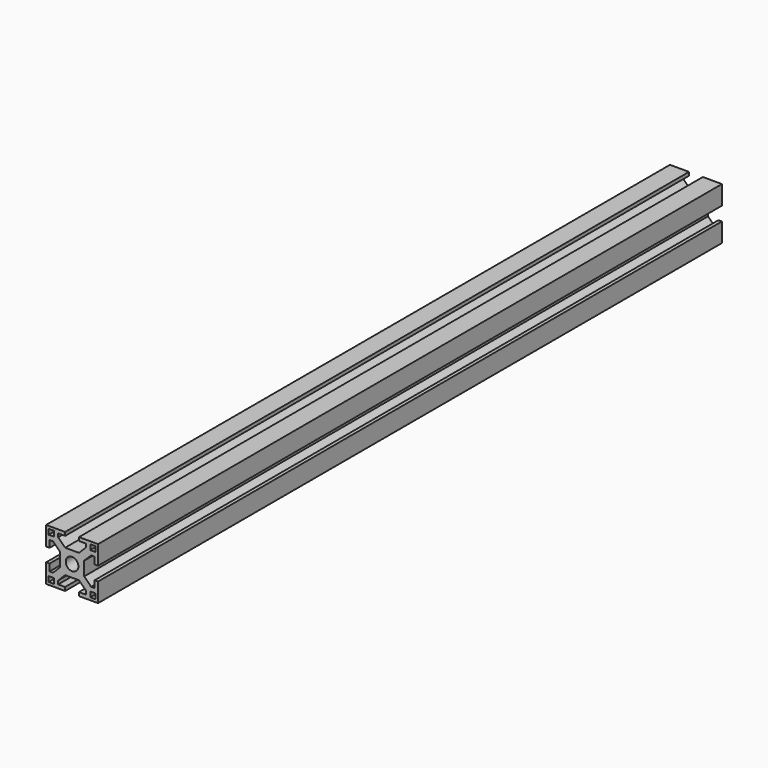
from build123d import *

# Parameters (mm, degrees)
F0_W     = 30
F0_H     = 30
F1_DEPTH = 450
F2_R     = 3.65
F2_W     = 3
F2_H     = 3
F3_DEPTH = 450.001


with BuildPart() as f1:
    # F0 (on Front) → F1 (new body)
    with BuildSketch(Plane.XZ):
        Rectangle(F0_W, F0_H)
    extrude(amount=F1_DEPTH)

    # F2 (on face) → F3 (cut, through all)
    with BuildSketch(Plane.XZ.offset(450)):
        Polygon((-13, 4), (-15, 4), (-15, -4), (-13, -4), (-13, -8), (-11, -8), (-7, -4), (-7, 4), (-11, 8), (-13, 8), align=None)
        Polygon((4, 15), (-4, 15), (-4, 13), (-8, 13), (-8, 11), (-4, 7), (4, 7), (8, 11), (8, 13), (4, 13), align=None)
        Polygon((13, -4), (15, -4), (15, 4), (13, 4), (13, 8), (11, 8), (7, 4), (7, -4), (11, -8), (13, -8), align=None)
        Circle(F2_R)
        Polygon((-4, -12.938677), (-4, -15), (4, -15), (3.952038, -12.938677), (8, -12.938677), (8, -10.938677), (4, -6.938677), (-4, -6.938677), (-8, -10.938677), (-8, -12.938677), align=None)
        with Locations((12, 12)):
            Rectangle(F2_W, F2_H)
        with Locations((-12, 12)):
            Rectangle(F2_W, F2_H)
        with Locations((12, -12)):
            Rectangle(F2_W, F2_H)
        with Locations((-12, -12)):
            Rectangle(F2_W, F2_H)
    extrude(amount=-F3_DEPTH, mode=Mode.SUBTRACT)


solid = f1.part
